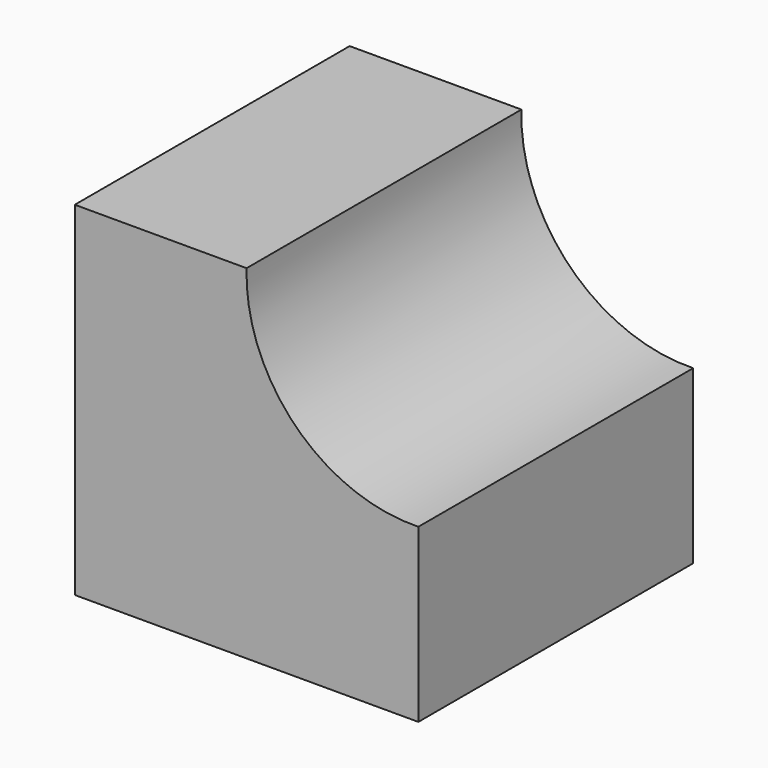
from build123d import *

# Parameters (mm, degrees)
F0_W     = 50.8
F0_H     = 50.8
F1_DEPTH = 50.8
F3_DEPTH = 50.8


with BuildPart() as f1:
    # F0 (on Front) → F1 (new body)
    with BuildSketch(Plane.XZ):
        with Locations((-25.4, 25.4)):
            Rectangle(F0_W, F0_H)
    extrude(amount=F1_DEPTH)

    # F2 (on face) → F3 (cut)
    with BuildSketch(Plane.XZ.offset(50.8)):
        with BuildLine():
            Line((0, 50.8), (-25.4, 50.8))
            ThreePointArc((-25.4, 50.8), (-18.174974, 32.625026), (0, 25.4))
            Line((0, 25.4), (0, 50.8))
        make_face()
    extrude(amount=-F3_DEPTH, mode=Mode.SUBTRACT)


solid = f1.part
